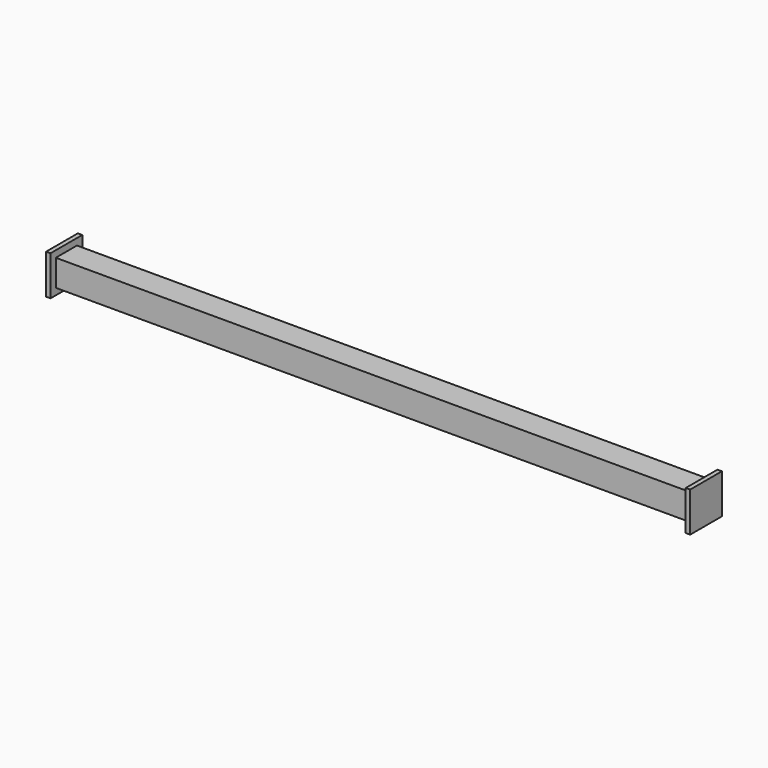
from build123d import *

# Parameters (mm, degrees)
F0_W     = 152.4
F0_H     = 152.4
F1_DEPTH = 12.7
F4_W     = 1828.8
F4_H     = 76.2
F5_DEPTH = 76.2
F6_W     = 114.3
F6_H     = 114.3
F6_W_2   = 76.2
F6_H_2   = 76.2
F7_DEPTH = 12.7
F8_W     = 114.3
F8_H     = 114.3
F9_DEPTH = 12.7


with BuildPart() as f1:
    # F0 (on Right) → F1 (new body)
    with BuildSketch(Plane.YZ):
        with Locations((4154.9873268127, -3903.1877601624)):
            Rectangle(F0_W, F0_H)
    extrude(amount=F1_DEPTH)


with BuildPart() as f1_1:
    # F2: moved
    add(f1.part.moved(Location((706.12, -1079.5, 1186.18))))


with BuildPart() as f5:
    # F4 (on Front) → F5 (new body)
    with BuildSketch(Plane.XZ):
        Rectangle(F4_W, F4_H)
    extrude(amount=F5_DEPTH)

    # F6 (on face) → F7 (join)
    with BuildSketch(Plane.YZ.offset(914.4)):
        with Locations((-38.1, 0)):
            Rectangle(F6_W, F6_H)
        with Locations((-38.1, 0)):
            Rectangle(F6_W_2, F6_H_2, mode=Mode.SUBTRACT)
        with Locations((-38.1, 0)):
            Rectangle(F6_W_2, F6_H_2)
    extrude(amount=F7_DEPTH)

    # F8 (on face) → F9 (join)
    with BuildSketch(Plane(origin=(-914.4, 0, 0), x_dir=(0, -1, 0), z_dir=(-1, 0, 0))):
        with Locations((38.1, 0)):
            Rectangle(F8_W, F8_H)
    extrude(amount=F9_DEPTH)


solid = f5.part
